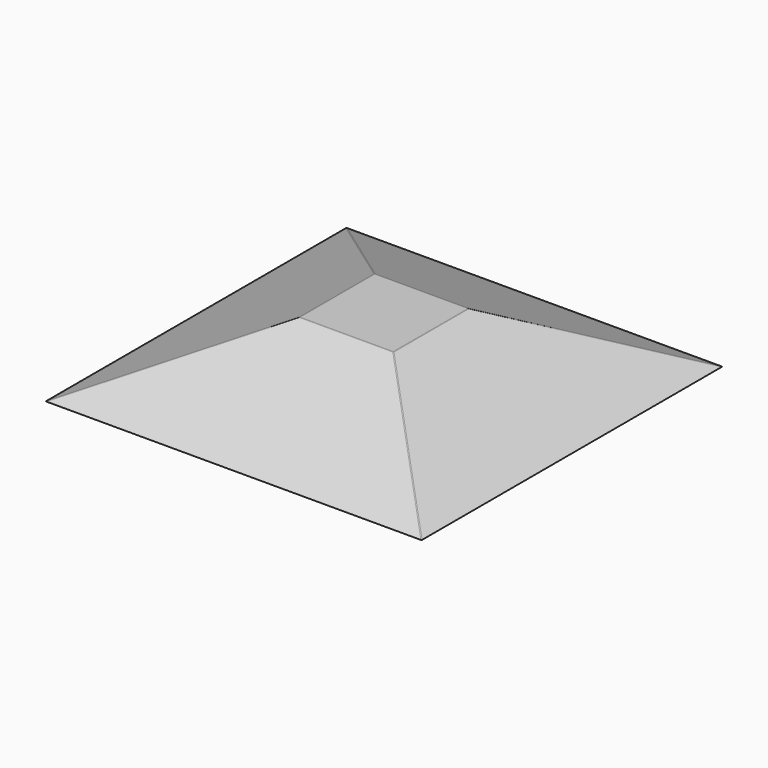
from build123d import *

# Parameters (mm, degrees)
F0_W = 3000
F0_H = 3000
F2_W = 750
F2_H = 750
F4_R = 13


with BuildPart() as f3:
    # F0 (on Top) → F3 section 0
    with BuildSketch(Plane.XY):
        Rectangle(F0_W, F0_H)
    # F2 (on offset) → F3 section 1
    with BuildSketch(Plane.XY.offset(500)):
        Rectangle(F2_W, F2_H)
    loft()

    # F4
    f4_edges = [f3.edges().sort_by_distance(p)[0] for p in [
        (-937.5, 937.5, 250),
        (375, 0, 500),
        (0, 375, 500),
        (-375, 0, 500),
        (0, -375, 500),
        (-937.5, -937.5, 250),
        (937.5, -937.5, 250),
        (937.5, 937.5, 250),
    ]]
    fillet(f4_edges, radius=F4_R)


solid = f3.part
